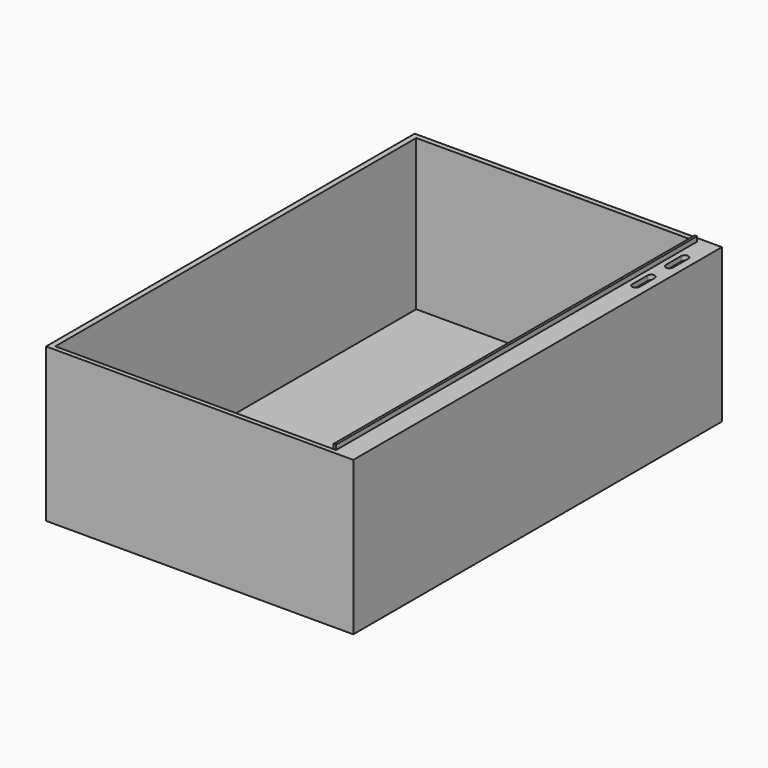
from build123d import *

# Parameters (mm, degrees)
F0_W     = 406.4
F0_H     = 609.6
F1_DEPTH = 203.2
F2_W     = 368.3
F2_H     = 596.9
F3_DEPTH = 199.39
F5_DEPTH = 25.4
F7_DEPTH = 25.4
F8_W     = 3.175
F8_H     = 596.9
F9_DEPTH = 6.35


with BuildPart() as f1:
    # F0 (on Top) → F1 (new body)
    with BuildSketch(Plane.XY):
        Rectangle(F0_W, F0_H)
    extrude(amount=F1_DEPTH)

    # F2 (on face) → F3 (cut)
    with BuildSketch(Plane.XY.offset(203.2)):
        with Locations((-11.712919, -0.323749)):
            Rectangle(F2_W, F2_H)
    extrude(amount=-F3_DEPTH, mode=Mode.SUBTRACT)

    # F4 (on face) → F5 (cut)
    with BuildSketch(Plane(origin=(172.437081, 0, 0), x_dir=(0, -1, 0), z_dir=(-1, 0, 0))):
        Polygon((-298.126251, 196.85), (-298.126251, 3.81), (298.773749, 3.81), (298.773749, 196.85), (-77.169992, 196.85), align=None)
    extrude(amount=-F5_DEPTH, mode=Mode.SUBTRACT)

    # F6 (on face) → F7 (cut)
    with BuildSketch(Plane.XY.offset(203.2)):
        with BuildLine():
            Line((192.28287, 237.560081), (192.282062, 262.872214))
            ThreePointArc((192.282062, 262.872214), (187.564229, 267.722228), (182.75787, 262.959929))
            Line((182.75787, 262.959929), (182.75787, 237.559929))
            ThreePointArc((182.75787, 237.559929), (187.520446, 232.797429), (192.28287, 237.560081))
        make_face()
        with BuildLine():
            Line((192.282946, 181.997568), (192.282208, 207.31357))
            ThreePointArc((192.282208, 207.31357), (187.562377, 212.159745), (182.757946, 207.397429))
            Line((182.757946, 207.397429), (182.757946, 181.997429))
            ThreePointArc((182.757946, 181.997429), (187.520515, 177.234929), (192.282946, 181.997568))
        make_face()
    extrude(amount=-F7_DEPTH, mode=Mode.SUBTRACT)

    # F8 (on face) → F9 (join)
    with BuildSketch(Plane.XY.offset(203.2)):
        with Locations((174.024581, -0.323749)):
            Rectangle(F8_W, F8_H)
    extrude(amount=F9_DEPTH)


solid = f1.part
